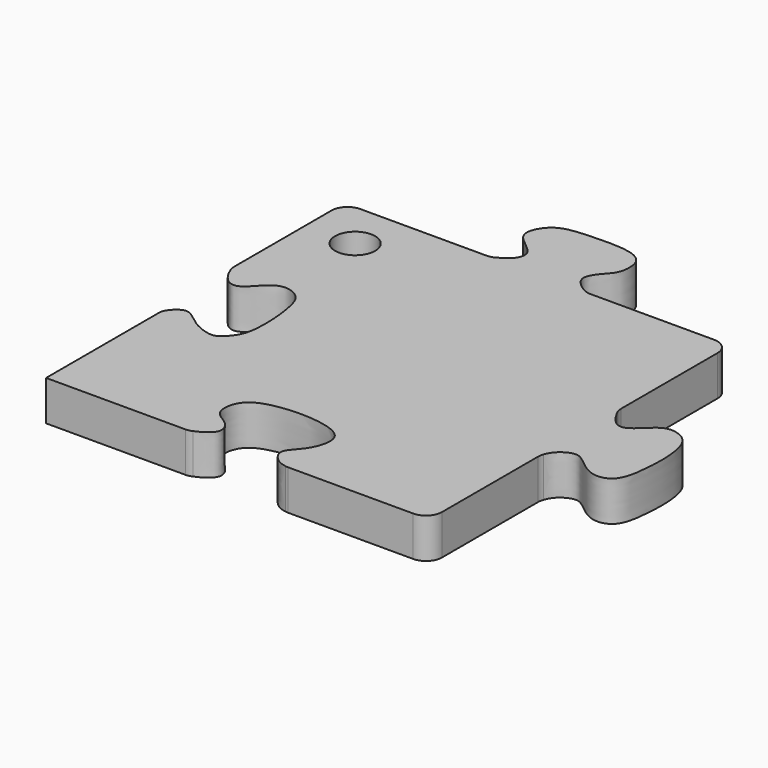
from build123d import *

# Parameters (mm, degrees)
F0_R     = 3.175
F1_DEPTH = 6.35


with BuildPart() as f1:
    # F0 (on Top) → F1 (new body)
    with BuildSketch(Plane.XY):
        with BuildLine():
            Line((-14.7205842293, 25.070251897), (-34.7362158513, 25.070251897))
            ThreePointArc((-34.7362158513, 25.070251897), (-36.5322670755, 24.3263031212), (-37.2762158513, 22.530251897))
            Line((-37.2762158513, 22.530251897), (-37.2762158513, 3.229879867))
            ThreePointArc((-37.2762158513, 3.229879867), (-37.2379279527, 2.7905206045), (-37.1242185587, 2.3644071238))
            add(Edge.make_bspline(
                [(-37.1242185587, 2.3644071238), (-37.0011861658, 2.0249375221), (-36.6067380375, 1.0688980394), (-35.1919259828, -0.8014039748), (-33.1218919934, -0.6722293266), (-31.3194937438, 1.8187412636), (-29.0294500069, 3.2360817686), (-25.8354551222, 1.9940070569), (-25.029808816, -1.5496575863), (-24.610418326, -5.1616861694), (-24.7013941777, -10.1269020978), (-26.1981170624, -11.7309736088), (-26.8868263811, -12.3753743246)],
                knots=[0.0230344746, 0.0230344746, 0.0230344746, 0.0230344746, 0.0761500594, 0.168044424, 0.2453180954, 0.3477571843, 0.4424242567, 0.5428772152, 0.6516566102, 0.7683029167, 0.8979369876, 1, 1, 1, 1], degree=3))
            add(Edge.make_bspline(
                [(-26.8868263811, -12.3753743246), (-27.2147636861, -12.6511240378), (-28.2217726227, -13.0179571048), (-31.0287906683, -12.0491603808), (-32.9492993786, -10.4165694497), (-34.811420611, -9.2317294219), (-36.886676041, -11.3558036924), (-36.8467170012, -12.2461082212), (-36.8303842843, -12.6111162826)],
                knots=[0, 0, 0, 0, 0.1362097591, 0.3348292665, 0.5267056608, 0.6860872401, 0.8712725118, 1, 1, 1, 1], degree=3))
            Line((-36.8303842843, -12.6111162826), (-36.8303842843, -34.6475243568))
            Line((-36.8303842843, -34.6475243568), (-14.7263594354, -34.6475243568))
            ThreePointArc((-14.7263594354, -34.6475243568), (-14.2061091032, -34.5936739082), (-13.7079183881, -34.4344059252))
            add(Edge.make_bspline(
                [(-13.7079183881, -34.4344059252), (-13.211735557, -34.2172341666), (-12.1175038144, -33.6858751327), (-10.6798102342, -32.2246364407), (-11.8473089916, -29.8978763621), (-14.8656525924, -28.8682122165), (-14.3956413318, -24.2786017194), (-9.8899107152, -22.4306823304), (-3.2079066899, -22.3496233861), (0.8846184437, -23.8019589472), (1.5427764599, -26.2733724055), (0.3193591182, -29.5676278437), (-2.5100216453, -31.805547558), (-0.4896775113, -34.2169231243), (0.6317599775, -34.5095762216), (1.0959836565, -34.60033255)],
                knots=[0.016319006, 0.016319006, 0.016319006, 0.016319006, 0.0652252388, 0.1262523351, 0.1910383283, 0.2655478629, 0.3484322823, 0.4422637385, 0.5586433006, 0.6466997753, 0.7111120415, 0.7936528332, 0.8711322138, 0.9410666169, 0.9909762992, 0.9909762992, 0.9909762992, 0.9909762992], degree=3))
            ThreePointArc((1.0959836565, -34.60033255), (1.3385174883, -34.6356988772), (1.5833308757, -34.6475243568))
            Line((1.5833308757, -34.6475243568), (21.4372349596, -34.6475243568))
            ThreePointArc((21.4372349596, -34.6475243568), (23.2332861838, -33.9035755811), (23.9772349596, -32.1075243568))
            Line((23.9772349596, -32.1075243568), (23.9772349596, -13.0486912418))
            ThreePointArc((23.9772349596, -13.0486912418), (24.0193392405, -12.5881296538), (24.1442562008, -12.1428370536))
            add(Edge.make_bspline(
                [(24.2831874977, 2.2191206229), (24.6555873823, 1.5307354036), (25.4453397597, 0.2099576641), (27.292409083, -0.8657891373), (29.6009117808, 1.2644287621), (31.6585039096, 3.3151896283), (35.3894116276, 2.276359356), (36.6269728868, -1.6804528831), (36.5393902719, -6.9749975027), (35.7288982773, -12.2035855094), (31.9397361262, -12.9305713233), (29.1372590259, -10.5887987484), (27.285888876, -9.1761811196), (24.8555149823, -10.5742521875), (24.3164307935, -11.6918078961), (24.1442562008, -12.1428370536)],
                knots=[0.0161025399, 0.0161025399, 0.0161025399, 0.0161025399, 0.0743688535, 0.1338756938, 0.2076993295, 0.2814400893, 0.3590485368, 0.444581019, 0.5485193577, 0.6445977714, 0.7206023036, 0.8034942636, 0.8672950536, 0.9378919507, 0.9841701215, 0.9841701215, 0.9841701215, 0.9841701215], degree=3))
            ThreePointArc((24.2831874977, 2.2191206229), (24.054910798, 2.8043411007), (23.9772349596, 3.4276866898))
            Line((23.9772349596, 3.4276866898), (23.9772349596, 22.530251897))
            ThreePointArc((23.9772349596, 22.530251897), (23.2332861838, 24.3263031212), (21.4372349596, 25.070251897))
            Line((21.4372349596, 25.070251897), (1.8044644165, 25.070251897))
            ThreePointArc((1.8044644165, 25.070251897), (1.1737046655, 25.1498165419), (0.5824615882, 25.3835258052))
            add(Edge.make_bspline(
                [(-13.5292054128, 25.3669916545), (-12.7964116939, 25.7561729439), (-11.4147978122, 26.5963261817), (-10.7381786451, 28.7848363904), (-12.9266818208, 30.5081911692), (-15.4823393688, 32.5782831897), (-13.3776809283, 36.4725650152), (-9.9303481674, 37.1364148431), (-5.6538995668, 37.3099649325), (-1.5172776582, 37.1789141127), (1.2106663529, 35.7432014992), (1.2537356698, 31.7892693006), (-0.674086423, 30.1458446744), (-2.2306446353, 27.5867910757), (-0.3570614527, 25.9419977563), (0.4021157319, 25.4824976309), (0.5824615882, 25.3835258052)],
                knots=[0.0148527222, 0.0148527222, 0.0148527222, 0.0148527222, 0.0725898993, 0.1313359286, 0.1992653761, 0.2710429273, 0.3501464884, 0.4279816536, 0.5162989735, 0.6024365169, 0.671763459, 0.7490057155, 0.8169099449, 0.8836759997, 0.9501946929, 0.9725869093, 0.9725869093, 0.9725869093, 0.9725869093], degree=3))
            ThreePointArc((-13.5292054128, 25.3669916545), (-14.1066954022, 25.1455530294), (-14.7205842293, 25.070251897))
        make_face()
        with Locations((-29.4602634757, 17.450251897)):
            Circle(F0_R, mode=Mode.SUBTRACT)
    extrude(amount=F1_DEPTH)


solid = f1.part
